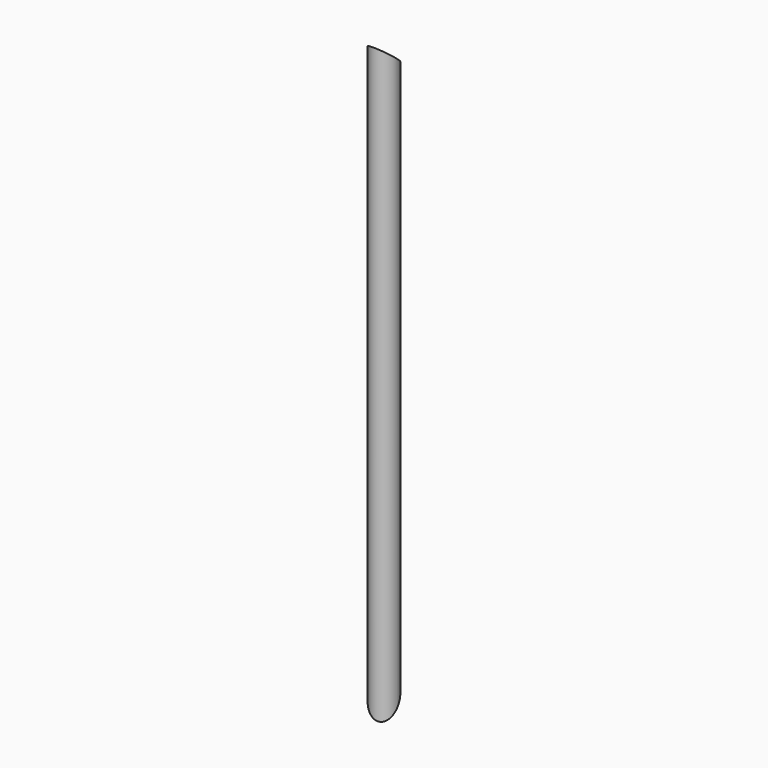
from build123d import *

# Parameters (mm, degrees)
F0_R          = 24.13
F0_R_2        = 20.447
F1_DEPTH      = 1130.3
F3_DEPTH      = 24.131
F3_DEPTH_BACK = 24.131
F5_DEPTH      = 24.131
F5_DEPTH_BACK = 24.131
F8_W          = 178.4191885963
F8_H          = 167.3920117319
F9_DEPTH      = 50.8
F9_DEPTH_BACK = 20.32


with BuildPart() as f1:
    # F0 (on Top) → F1 (new body)
    with BuildSketch(Plane.XY):
        Circle(F0_R)
        Circle(F0_R_2, mode=Mode.SUBTRACT)
    extrude(amount=F1_DEPTH)

    # F2 (on Right) → F3 (cut, two sides)
    with BuildSketch(Plane.YZ) as f3_sk:
        Polygon((24.13, 1089.8050517994), (24.13, 1130.3), (-24.13, 1130.3), align=None)
    extrude(amount=-F3_DEPTH, mode=Mode.SUBTRACT)
    extrude(f3_sk.sketch, amount=F3_DEPTH_BACK, mode=Mode.SUBTRACT)

    # F4 (on Front) → F5 (cut, two sides)
    with BuildSketch(Plane.XZ) as f5_sk:
        Polygon((-28.575, 0), (28.575, 0), (-28.575, 29.0972948719), align=None)
    extrude(amount=F5_DEPTH, mode=Mode.SUBTRACT)
    extrude(f5_sk.sketch, amount=-F5_DEPTH_BACK, mode=Mode.SUBTRACT)

    # F8 (on line) → F9 (cut, two sides)
    with BuildSketch(Plane(origin=(2.9412132624, -6.4824828952, 5.7768372862), x_dir=(-0.9471380058, -0.2395200516, 0.2134472836), z_dir=(-0.3208264297, 0.7071067812, -0.6301352252))) as f9_sk:
        with Locations((5.3417463787, 7.3568988591)):
            Rectangle(F8_W, F8_H)
    extrude(amount=F9_DEPTH, mode=Mode.SUBTRACT)
    extrude(f9_sk.sketch, amount=-F9_DEPTH_BACK, mode=Mode.SUBTRACT)


solid = f1.part
